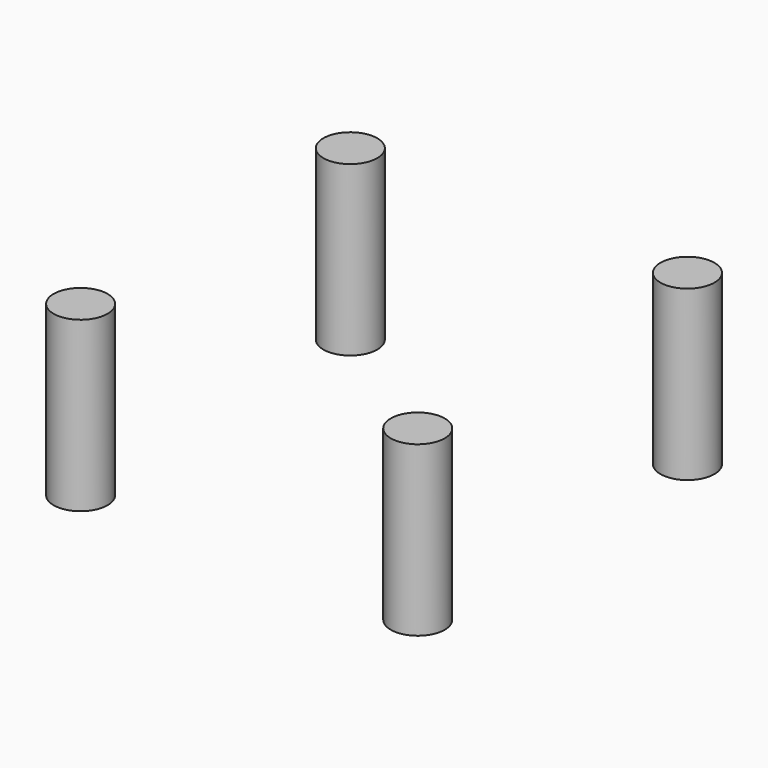
from build123d import *

# Parameters (mm, degrees)
CYLINDER032_R     = 1.6
CYLINDER032_DEPTH = 10
CYLINDER031_R     = 1.6
CYLINDER031_DEPTH = 10
CYLINDER030_R     = 1.6
CYLINDER030_DEPTH = 10
CYLINDER033_R     = 1.6
CYLINDER033_DEPTH = 10


with BuildPart() as cylinder032:
    # Cylinder032 → Cylinder032 (new body)
    with BuildSketch(Plane(origin=(10, 10, 0), x_dir=(1, 0, 0), z_dir=(0, 0, 1))):
        Circle(CYLINDER032_R)
    extrude(amount=CYLINDER032_DEPTH)


with BuildPart() as cylinder031:
    # Cylinder031 → Cylinder031 (new body)
    with BuildSketch(Plane(origin=(10, -10, 0), x_dir=(1, 0, 0), z_dir=(0, 0, 1))):
        Circle(CYLINDER031_R)
    extrude(amount=CYLINDER031_DEPTH)


with BuildPart() as cylinder030:
    # Cylinder030 → Cylinder030 (new body)
    with BuildSketch(Plane(origin=(-10, 10, 0), x_dir=(1, 0, 0), z_dir=(0, 0, 1))):
        Circle(CYLINDER030_R)
    extrude(amount=CYLINDER030_DEPTH)


with BuildPart() as rail_bolt:
    # Cylinder033 → Cylinder033 (new body)
    with BuildSketch(Plane(origin=(-10, -10, 0), x_dir=(1, 0, 0), z_dir=(0, 0, 1))):
        Circle(CYLINDER033_R)
    extrude(amount=CYLINDER033_DEPTH)

    # Fusion036: union Cylinder032, Cylinder031, Cylinder030
    add(cylinder032.part)
    add(cylinder031.part)
    add(cylinder030.part)


solid = rail_bolt.part
